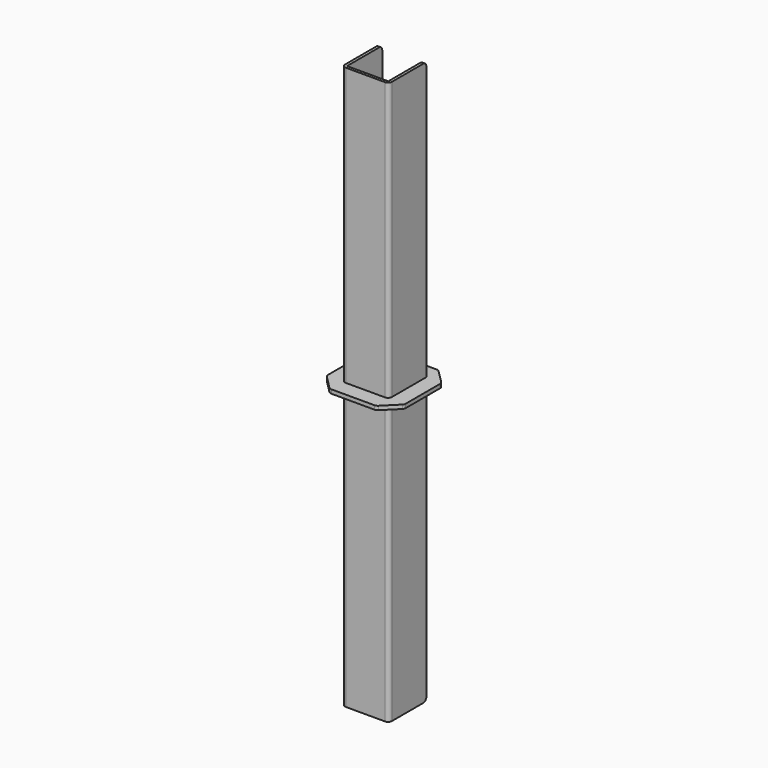
from build123d import *

# Parameters (mm, degrees)
F1_DEPTH = 228.6
F2_R     = 3.175
F3_R     = 3.175
F0_W     = 63.246
F0_H     = 63.0053096
F0_W_2   = 33.528
F0_H_2   = 2.53238
F4_DEPTH = 3.175
F5_SIZE  = 12.7
F6_R     = 3.175
F7_R     = 3.175


with BuildPart() as f1:
    # F0 (on Top) → F1 (new body, symmetric)
    with BuildSketch(Plane.XY):
        Polygon((-16.764, 19.05), (-19.05, 19.05), (-19.05, -19.05), (19.05, -19.05), (19.05, 19.05), (16.764, 19.05), (16.764, 16.51762), (16.764, -16.764), (-16.764, -16.764), (-16.764, 16.51762), align=None)
    extrude(amount=F1_DEPTH, both=True)

    # F2
    f2_edges = [f1.edges().sort_by_distance(p)[0] for p in [
        (19.05, -19.05, 0),
        (-19.05, -19.05, 0),
    ]]
    fillet(f2_edges, radius=F2_R)

    # F3
    f3_edges = [f1.edges().sort_by_distance(p)[0] for p in [
        (-17.907, 19.05, 228.6),
        (17.907, 19.05, 228.6),
        (-17.907, 19.05, -228.6),
        (17.907, 19.05, -228.6),
    ]]
    fillet(f3_edges, radius=F3_R)


with BuildPart() as f4:
    # F0 (on Top) → F4 (new body)
    with BuildSketch(Plane.XY):
        with Locations((0, -0.1336548)):
            Rectangle(F0_W, F0_H)
        Polygon((-19.05, -19.05), (-19.05, 19.05), (-16.764, 19.05), (16.764, 19.05), (19.05, 19.05), (19.05, -19.05), align=None, mode=Mode.SUBTRACT)
        with Locations((0, 17.78381)):
            Rectangle(F0_W_2, F0_H_2)
    extrude(amount=F4_DEPTH)

    # F5
    f5_edges = [f4.edges().sort_by_distance(p)[0] for p in [
        (-31.623, 31.369, 1.5875),
        (-31.623, -31.63631, 1.5875),
        (31.623, -31.63631, 1.5875),
        (31.623, 31.369, 1.5875),
    ]]
    chamfer(f5_edges, length=F5_SIZE)

    # F6
    f6_edges = [f4.edges().sort_by_distance(p)[0] for p in [
        (-19.05, -19.05, 1.5875),
        (19.05, -19.05, 1.5875),
    ]]
    fillet(f6_edges, radius=F6_R)

    # F7
    f7_edges = [f4.edges().sort_by_distance(p)[0] for p in [
        (31.623, -18.93631, 1.5875),
        (31.623, 18.669, 1.5875),
        (18.923, 31.369, 1.5875),
        (-18.923, 31.369, 1.5875),
        (18.923, -31.63631, 1.5875),
        (-18.923, -31.63631, 1.5875),
        (-31.623, 18.669, 1.5875),
        (-31.623, -18.93631, 1.5875),
    ]]
    fillet(f7_edges, radius=F7_R)


solid = Compound([f1.part, f4.part])
